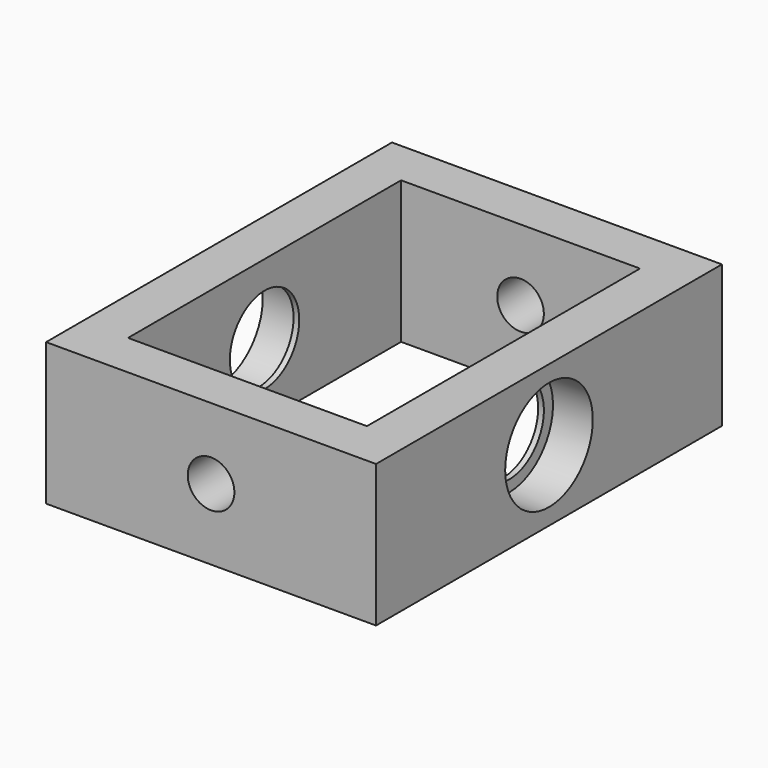
from build123d import *

# Parameters (mm, degrees)
F0_W     = 58
F0_H     = 76
F0_W_2   = 42
F0_H_2   = 60
F1_DEPTH = 25
F2_R     = 9.625
F3_DEPTH = 58
F4_R     = 4.1
F5_DEPTH = 76
F6_R     = 9.625
F6_R_2   = 7.625
F7_DEPTH = 1
F8_R     = 9.625
F8_R_2   = 7.625
F9_DEPTH = 1


with BuildPart() as f1:
    # F0 (on Top) → F1 (new body)
    with BuildSketch(Plane.XY):
        Rectangle(F0_W, F0_H)
        Rectangle(F0_W_2, F0_H_2, mode=Mode.SUBTRACT)
    extrude(amount=F1_DEPTH)

    # F2 (on face) → F3 (cut, through all)
    with BuildSketch(Plane(origin=(-29, 0, 0), x_dir=(0, -1, 0), z_dir=(-1, 0, 0))):
        with Locations((0, 12.5)):
            Circle(F2_R)
    extrude(amount=-F3_DEPTH, mode=Mode.SUBTRACT)

    # F4 (on face) → F5 (cut, through all)
    with BuildSketch(Plane.XZ.offset(38)):
        with Locations((0, 12.5)):
            Circle(F4_R)
    extrude(amount=-F5_DEPTH, mode=Mode.SUBTRACT)

    # F6 (on face) → F7 (join)
    with BuildSketch(Plane(origin=(21, 0, 0), x_dir=(0, -1, 0), z_dir=(-1, 0, 0))):
        with Locations((0, 12.5)):
            Circle(F6_R)
        with Locations((0, 12.5)):
            Circle(F6_R_2, mode=Mode.SUBTRACT)
    extrude(amount=-F7_DEPTH)

    # F8 (on face) → F9 (join)
    with BuildSketch(Plane.YZ.offset(-21)):
        with Locations((0, 12.5)):
            Circle(F8_R)
        with Locations((0, 12.5)):
            Circle(F8_R_2, mode=Mode.SUBTRACT)
    extrude(amount=-F9_DEPTH)


solid = f1.part
